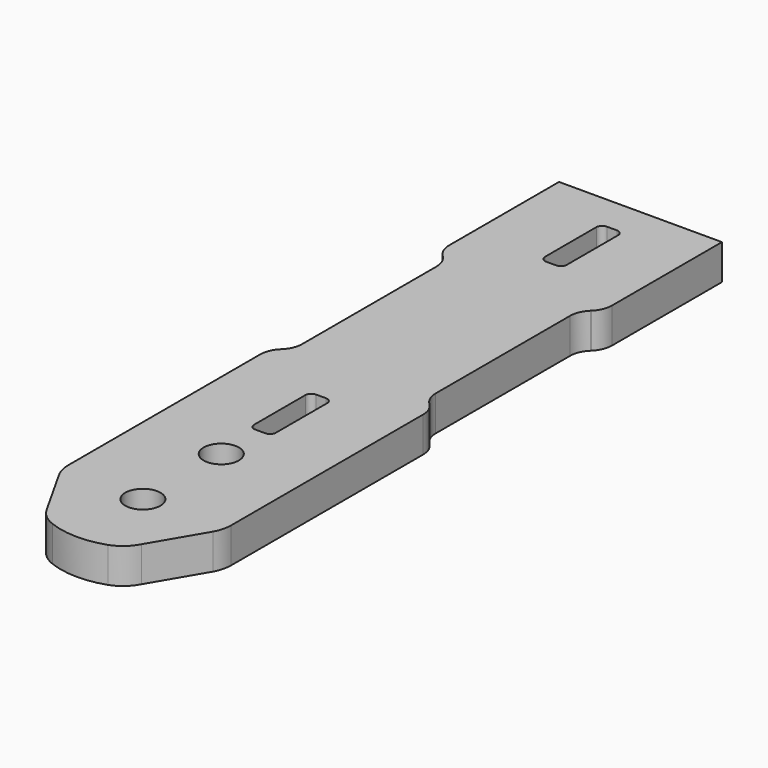
from build123d import *

# Parameters (mm, degrees)
F0_R     = 1.5
F1_DEPTH = 3


with BuildPart() as f1:
    # F0 (on Top) → F1 (new body)
    with BuildSketch(Plane.XY):
        with BuildLine():
            Line((6.933999, -56.077375), (6.933999, -37.712938))
            Line((6.933999, -37.712938), (6.933999, -35.652861))
            ThreePointArc((6.933999, -35.652861), (6.780027, -34.883329), (6.34182, -34.232284))
            Line((6.34182, -34.232284), (6.274936, -34.166001))
            ThreePointArc((6.274936, -34.166001), (5.836729, -33.514955), (5.682757, -32.745423))
            Line((5.682757, -32.745423), (5.682757, -25.60362))
            Line((5.682757, -25.60362), (5.682757, -18.461816))
            ThreePointArc((5.682757, -18.461816), (5.836729, -17.692285), (6.274936, -17.041239))
            Line((6.274936, -17.041239), (6.34182, -16.974956))
            ThreePointArc((6.34182, -16.974956), (6.780027, -16.32391), (6.933999, -15.554379))
            Line((6.933999, -15.554379), (6.933999, -3.854954))
            Line((6.933999, -3.854954), (-6.933999, -3.854954))
            Line((-6.933999, -3.854954), (-6.933999, -15.554379))
            ThreePointArc((-6.933999, -15.554379), (-6.780027, -16.32391), (-6.34182, -16.974956))
            Line((-6.34182, -16.974956), (-6.274936, -17.041239))
            ThreePointArc((-6.274936, -17.041239), (-5.836729, -17.692285), (-5.682757, -18.461816))
            Line((-5.682757, -18.461816), (-5.682757, -32.745423))
            ThreePointArc((-5.682757, -32.745423), (-5.836729, -33.514955), (-6.274936, -34.166001))
            Line((-6.274936, -34.166001), (-6.34182, -34.232284))
            ThreePointArc((-6.34182, -34.232284), (-6.780027, -34.883329), (-6.933999, -35.652861))
            Line((-6.933999, -35.652861), (-6.933999, -37.712938))
            Line((-6.933999, -37.712938), (-6.933999, -56.077375))
            ThreePointArc((-6.933999, -56.077375), (-6.835971, -56.838006), (-6.548292, -57.548929))
            Line((-6.548292, -57.548929), (-4.050229, -61.986871))
            ThreePointArc((-4.050229, -61.986871), (-3.383371, -62.797311), (-2.478167, -63.328457))
            ThreePointArc((-2.478167, -63.328457), (-0.094438, -63.782747), (2.300714, -63.393146))
            ThreePointArc((2.300714, -63.393146), (3.272916, -62.825366), (3.967362, -61.939197))
            Line((3.967362, -61.939197), (6.548292, -57.548929))
            ThreePointArc((6.548292, -57.548929), (6.835971, -56.838006), (6.933999, -56.077375))
        make_face()
        with Locations((0, -56.806176)):
            Circle(F0_R, mode=Mode.SUBTRACT)
        with Locations((0, -48.466466)):
            Circle(F0_R, mode=Mode.SUBTRACT)
        with BuildLine():
            Line((-0.42796, -37.847276), (0.42796, -37.847276))
            ThreePointArc((0.42796, -37.847276), (0.781514, -37.993722), (0.92796, -38.347276))
            Line((0.92796, -38.347276), (0.92796, -43.809416))
            ThreePointArc((0.92796, -43.809416), (0.781514, -44.162969), (0.42796, -44.309416))
            Line((0.42796, -44.309416), (-0.42796, -44.309416))
            ThreePointArc((-0.42796, -44.309416), (-0.781514, -44.162969), (-0.92796, -43.809416))
            Line((-0.92796, -43.809416), (-0.92796, -38.347276))
            ThreePointArc((-0.92796, -38.347276), (-0.781514, -37.993722), (-0.42796, -37.847276))
        make_face(mode=Mode.SUBTRACT)
        with BuildLine():
            ThreePointArc((0.92796, -12.859964), (0.781514, -13.213517), (0.42796, -13.359964))
            Line((0.42796, -13.359964), (-0.42796, -13.359964))
            ThreePointArc((-0.42796, -13.359964), (-0.781514, -13.213517), (-0.92796, -12.859964))
            Line((-0.92796, -12.859964), (-0.92796, -7.397824))
            ThreePointArc((-0.92796, -7.397824), (-0.781514, -7.04427), (-0.42796, -6.897824))
            Line((-0.42796, -6.897824), (0.42796, -6.897824))
            ThreePointArc((0.42796, -6.897824), (0.781514, -7.04427), (0.92796, -7.397824))
            Line((0.92796, -7.397824), (0.92796, -12.859964))
        make_face(mode=Mode.SUBTRACT)
    extrude(amount=F1_DEPTH)


solid = f1.part
